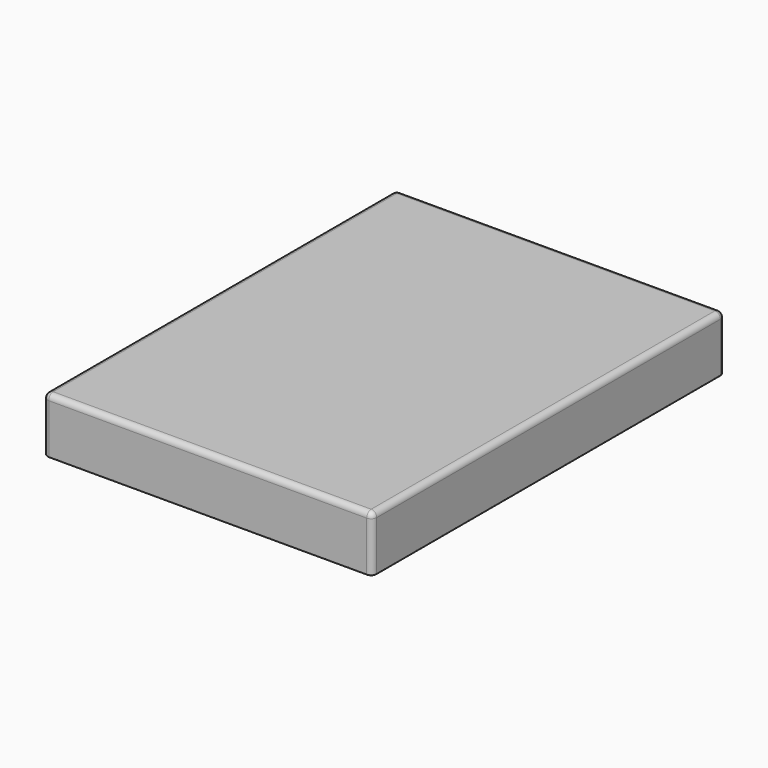
from build123d import *

# Parameters (mm, degrees)
F0_W     = 1498.6
F0_H     = 2006.6
F1_DEPTH = 254
F2_R     = 25.4
F3_R     = 5.08


with BuildPart() as f1:
    # F0 (on Top) → F1 (new body)
    with BuildSketch(Plane.XY):
        with Locations((749.3, 1003.3)):
            Rectangle(F0_W, F0_H)
    extrude(amount=F1_DEPTH)

    # F2
    f2_edges = [f1.edges().sort_by_distance(p)[0] for p in [
        (0, 1003.3, 254),
        (749.3, 0, 254),
        (1498.6, 1003.3, 254),
        (749.3, 2006.6, 254),
        (1498.6, 0, 127),
        (0, 0, 127),
        (1498.6, 2006.6, 127),
        (0, 2006.6, 127),
    ]]
    fillet(f2_edges, radius=F2_R)

    # F3
    f3_edges = [f1.edges().sort_by_distance(p)[0] for p in [
        (1498.6, 1003.3, 0),
        (749.3, 0, 0),
        (0, 1003.3, 0),
        (749.3, 2006.6, 0),
    ]]
    fillet(f3_edges, radius=F3_R)


solid = f1.part
